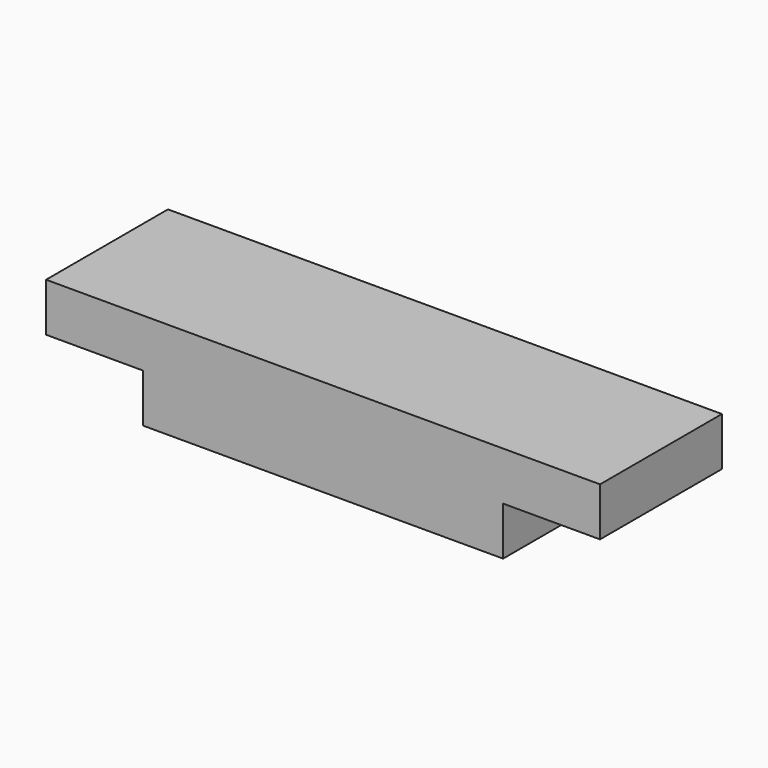
from build123d import *

# Parameters (mm, degrees)
F0_W     = 508
F0_H     = 139.7
F1_DEPTH = 88.9
F2_W     = 88.9
F2_H     = 139.7
F3_DEPTH = 44.45


with BuildPart() as f1:
    # F0 (on Top) → F1 (new body)
    with BuildSketch(Plane.XY):
        with Locations((254, 69.85)):
            Rectangle(F0_W, F0_H)
    extrude(amount=F1_DEPTH)

    # F2 (on face) → F3 (cut)
    with BuildSketch(Plane(origin=(0, 0, 0), x_dir=(1, 0, 0), z_dir=(0, 0, -1))):
        with Locations((44.45, -69.85)):
            Rectangle(F2_W, F2_H)
        with Locations((463.55, -69.85)):
            Rectangle(F2_W, F2_H)
    extrude(amount=-F3_DEPTH, mode=Mode.SUBTRACT)


solid = f1.part
